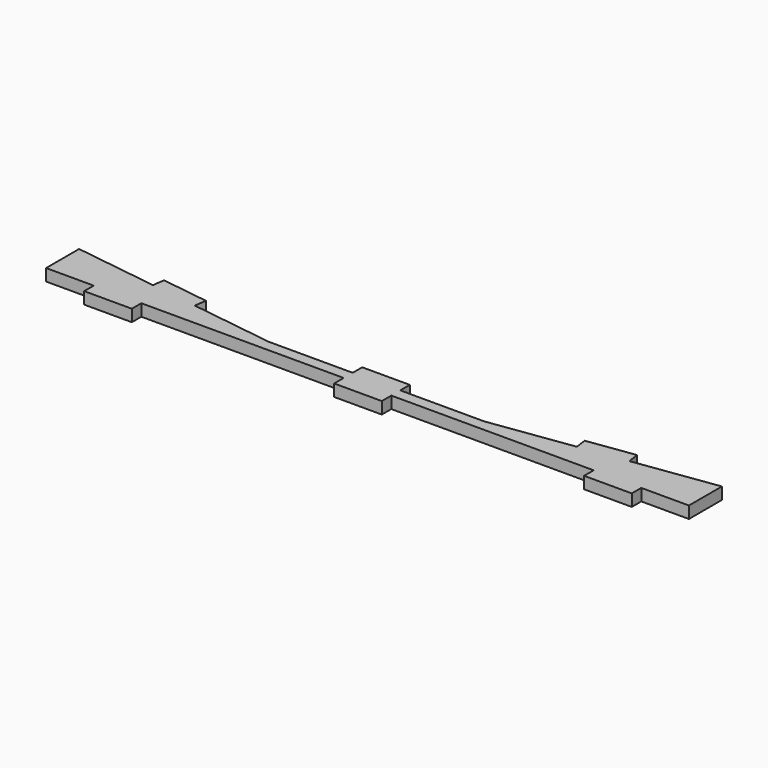
from build123d import *

# Parameters (mm, degrees)
F0_W     = 25.4
F0_H     = 6.35
F1_DEPTH = 6.35


with BuildPart() as f1:
    # F0 (on Top) → F1 (new body)
    with BuildSketch(Plane.XY):
        Polygon((-171.398427, 22), (-171.398427, 0), (-145.998427, 0), (-120.598427, 0), (-12.7, 0), (12.7, 0), (120.598427, 0), (145.998427, 0), (171.398427, 0), (171.398427, 22), (127.028518, 15.766784), (101.875509, 12.233216), (57.5056, 6), (12.7, 6), (-12.7, 6), (-57.5056, 6), (-101.875509, 12.233216), (-127.028518, 15.766784), align=None)
        with Locations((-133.298427, -3.175)):
            Rectangle(F0_W, F0_H)
        Polygon((-126.145126, 22.055037), (-127.028518, 15.766784), (-101.875509, 12.233216), (-100.992117, 18.521468), align=None)
        with Locations((0, -3.175)):
            Rectangle(F0_W, F0_H)
        with Locations((133.298427, -3.175)):
            Rectangle(F0_W, F0_H)
        with Locations((0, 9.175)):
            Rectangle(F0_W, F0_H)
        Polygon((100.992117, 18.521468), (101.875509, 12.233216), (127.028518, 15.766784), (126.145126, 22.055037), align=None)
    extrude(amount=F1_DEPTH)


solid = f1.part
